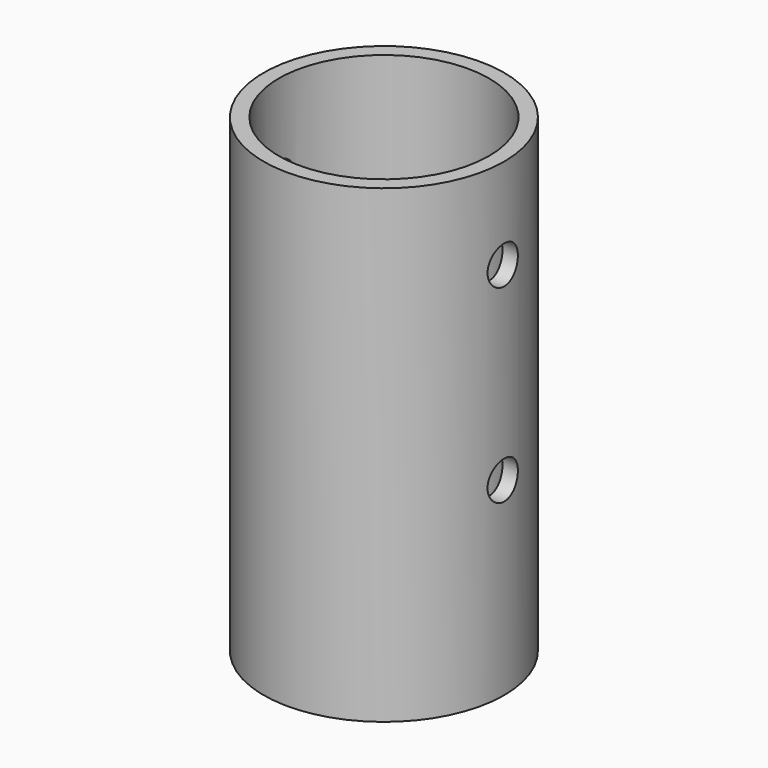
from build123d import *

# Parameters (mm, degrees)
F0_R     = 15.875
F0_R_2   = 13.875
F1_DEPTH = 62
F2_R     = 2.5
F3_DEPTH = 25


with BuildPart() as f1:
    # F0 (on Top) → F1 (new body)
    with BuildSketch(Plane.XY):
        Circle(F0_R)
        Circle(F0_R_2, mode=Mode.SUBTRACT)
    extrude(amount=F1_DEPTH)

    # F2 (on Right) → F3 (cut, symmetric)
    with BuildSketch(Plane.YZ):
        with Locations((0, 50)):
            Circle(F2_R)
        with Locations((0, 25)):
            Circle(F2_R)
    extrude(amount=F3_DEPTH, both=True, mode=Mode.SUBTRACT)


solid = f1.part
